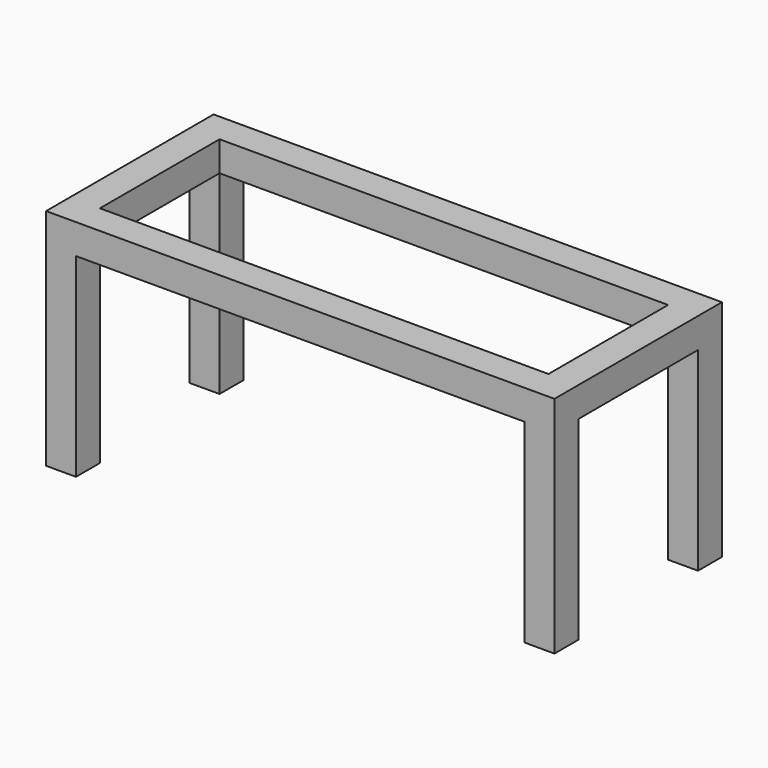
from build123d import *

# Parameters (mm, degrees)
F0_W     = 215.9
F0_H     = 88.9
F1_DEPTH = 95.25
F2_W     = 190.5
F2_H     = 63.5
F3_DEPTH = 95.251
F4_W     = 190.5
F4_H     = 82.55
F5_DEPTH = 88.901
F6_W     = 63.5
F6_H     = 82.55
F7_DEPTH = 215.901


with BuildPart() as f1:
    # F0 (on Top) → F1 (new body)
    with BuildSketch(Plane.XY):
        with Locations((-116.891209875, 41.7768546164)):
            Rectangle(F0_W, F0_H)
    extrude(amount=F1_DEPTH)

    # F2 (on face) → F3 (cut, through all)
    with BuildSketch(Plane.XY.offset(95.25)):
        with Locations((-116.891209875, 41.7768546164)):
            Rectangle(F2_W, F2_H)
    extrude(amount=-F3_DEPTH, mode=Mode.SUBTRACT)

    # F4 (on face) → F5 (cut, through all)
    with BuildSketch(Plane.XZ.offset(2.6731453836)):
        with Locations((-116.891209875, 41.275)):
            Rectangle(F4_W, F4_H)
    extrude(amount=-F5_DEPTH, mode=Mode.SUBTRACT)

    # F6 (on face) → F7 (cut, through all)
    with BuildSketch(Plane.YZ.offset(-8.941209875)):
        with Locations((41.7768546164, 41.275)):
            Rectangle(F6_W, F6_H)
    extrude(amount=-F7_DEPTH, mode=Mode.SUBTRACT)


solid = f1.part
